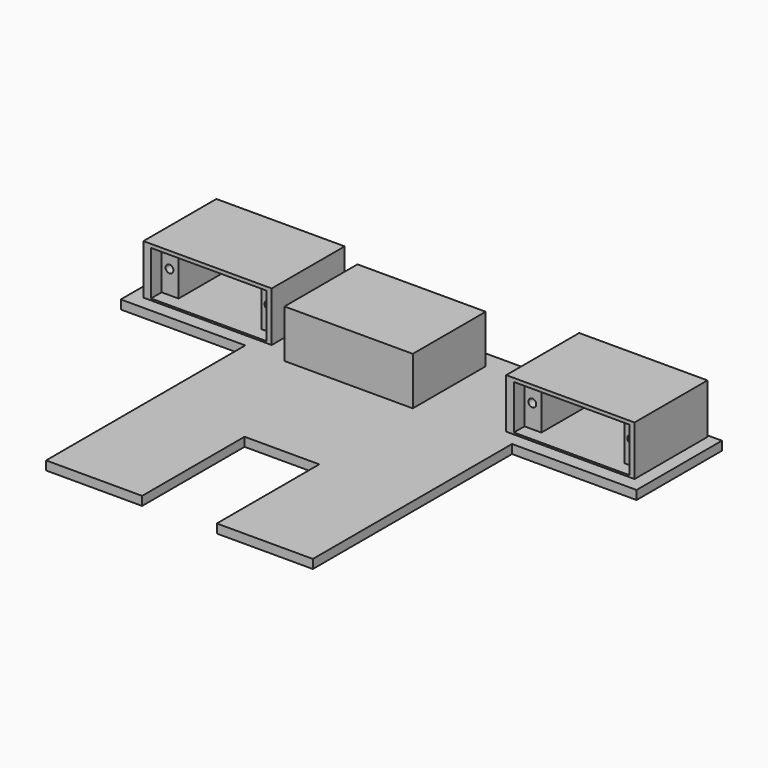
from build123d import *

# Parameters (mm, degrees)
BOX006_W               = 21
BOX006_H               = 36
BOX006_DEPTH           = 10
CYLINDER013_R          = 1.1
CYLINDER013_DEPTH      = 10
CYLINDER014_R          = 1.1
CYLINDER014_DEPTH      = 10
SKETCH019_W            = 23.3
SKETCH019_H            = 12.5
PAD019_DEPTH           = 19.5
SKETCH017_W            = 32.5
SKETCH017_H            = 12.5
PAD018_DEPTH           = 4.5
SKETCH018_W            = 36.061928
SKETCH018_H            = 25.639376
PAD017_DEPTH           = 14
CYLINDER015_R          = 1.1
CYLINDER015_DEPTH      = 10
CYLINDER016_R          = 1.1
CYLINDER016_DEPTH      = 10
SKETCH022_W            = 23.3
SKETCH022_H            = 12.5
PAD022_DEPTH           = 19.5
SKETCH020_W            = 32.5
SKETCH020_H            = 12.5
PAD021_DEPTH           = 4.5
SKETCH021_W            = 36.061928
SKETCH021_H            = 25.639376
PAD020_DEPTH           = 14
CUT019_PLACEMENT_ANGLE = 180
CYLINDER017_R          = 1.1
CYLINDER017_DEPTH      = 10
CYLINDER018_R          = 1.1
CYLINDER018_DEPTH      = 10
SKETCH025_W            = 23.3
SKETCH025_H            = 12.5
PAD025_DEPTH           = 19.5
SKETCH023_W            = 32.5
SKETCH023_H            = 12.5
PAD024_DEPTH           = 4.5
SKETCH024_W            = 36.061928
SKETCH024_H            = 25.639376
PAD023_DEPTH           = 14
CUT022_PLACEMENT_ANGLE = 180
PAD016_DEPTH           = 2.5


with BuildPart() as cube006:
    # Box006 → Box006 (new body)
    with BuildSketch(Plane(origin=(-10.5, -34, 0), x_dir=(1, 0, 0), z_dir=(0, 0, 1))):
        with Locations((10.5, 18)):
            Rectangle(BOX006_W, BOX006_H)
    extrude(amount=BOX006_DEPTH)


with BuildPart() as cylinder013:
    # Cylinder013 → Cylinder013 (new body)
    with BuildSketch(Plane(origin=(30, 22, 6), x_dir=(1, 0, 0), z_dir=(0, -1, 0))):
        Circle(CYLINDER013_R)
    extrude(amount=CYLINDER013_DEPTH)


with BuildPart() as obj1:
    # Cylinder014 → Cylinder014 (new body)
    with BuildSketch(Plane(origin=(2.2, 22, 6), x_dir=(1, 0, 0), z_dir=(0, -1, 0))):
        Circle(CYLINDER014_R)
    extrude(amount=CYLINDER014_DEPTH)

    # Fusion014: union Cylinder013
    add(cylinder013.part)


with BuildPart() as cortecuerpo002:
    # Sketch019 → Pad019 (new body)
    with BuildSketch(Plane.XZ):
        with Locations((16.4, 6.25)):
            Rectangle(SKETCH019_W, SKETCH019_H)
    extrude(amount=PAD019_DEPTH)


with BuildPart() as cortecuerpo002_1:
    # Body021 placement: moved
    add(cortecuerpo002.part.moved(Location((0, 19, 0))))


with BuildPart() as cortetornillos002:
    # Sketch017 → Pad018 (new body)
    with BuildSketch(Plane.XZ):
        with Locations((16.25, 6.25)):
            Rectangle(SKETCH017_W, SKETCH017_H)
    extrude(amount=PAD018_DEPTH)


with BuildPart() as cortetornillos002_1:
    # Body020 placement: moved
    add(cortetornillos002.part.moved(Location((0, 23, 0))))


with BuildPart() as obj2:
    # Sketch018 → Pad017 (new body)
    with BuildSketch(Plane.XY):
        with Locations((15.881367, 9.413649)):
            Rectangle(SKETCH018_W, SKETCH018_H)
    extrude(amount=PAD017_DEPTH)


with BuildPart() as obj2_1:
    # Body019 placement: moved
    add(obj2.part.moved(Location((0, 0, -1))))

    # Cut014: cut CorteTornillos002
    add(cortetornillos002_1.part, mode=Mode.SUBTRACT)

    # Cut015: cut CorteCuerpo002
    add(cortecuerpo002_1.part, mode=Mode.SUBTRACT)

    # Cut016: cut obj1
    add(obj1.part, mode=Mode.SUBTRACT)


with BuildPart() as obj2_2:
    # Cut016 placement: moved
    add(obj2_1.part.moved(Location((-24, 39, 4))))


with BuildPart() as cylinder015:
    # Cylinder015 → Cylinder015 (new body)
    with BuildSketch(Plane(origin=(30, 22, 6), x_dir=(1, 0, 0), z_dir=(0, -1, 0))):
        Circle(CYLINDER015_R)
    extrude(amount=CYLINDER015_DEPTH)


with BuildPart() as obj3:
    # Cylinder016 → Cylinder016 (new body)
    with BuildSketch(Plane(origin=(2.2, 22, 6), x_dir=(1, 0, 0), z_dir=(0, -1, 0))):
        Circle(CYLINDER016_R)
    extrude(amount=CYLINDER016_DEPTH)

    # Fusion015: union Cylinder015
    add(cylinder015.part)


with BuildPart() as cortecuerpo003:
    # Sketch022 → Pad022 (new body)
    with BuildSketch(Plane.XZ):
        with Locations((16.4, 6.25)):
            Rectangle(SKETCH022_W, SKETCH022_H)
    extrude(amount=PAD022_DEPTH)


with BuildPart() as cortecuerpo003_1:
    # Body024 placement: moved
    add(cortecuerpo003.part.moved(Location((0, 19, 0))))


with BuildPart() as cortetornillos003:
    # Sketch020 → Pad021 (new body)
    with BuildSketch(Plane.XZ):
        with Locations((16.25, 6.25)):
            Rectangle(SKETCH020_W, SKETCH020_H)
    extrude(amount=PAD021_DEPTH)


with BuildPart() as cortetornillos003_1:
    # Body023 placement: moved
    add(cortetornillos003.part.moved(Location((0, 23, 0))))


with BuildPart() as obj4:
    # Sketch021 → Pad020 (new body)
    with BuildSketch(Plane.XY):
        with Locations((15.881367, 9.413649)):
            Rectangle(SKETCH021_W, SKETCH021_H)
    extrude(amount=PAD020_DEPTH)


with BuildPart() as obj4_1:
    # Body022 placement: moved
    add(obj4.part.moved(Location((0, 0, -1))))

    # Cut017: cut CorteTornillos003
    add(cortetornillos003_1.part, mode=Mode.SUBTRACT)

    # Cut018: cut CorteCuerpo003
    add(cortecuerpo003_1.part, mode=Mode.SUBTRACT)

    # Cut019: cut obj3
    add(obj3.part, mode=Mode.SUBTRACT)


with BuildPart() as obj4_2:
    # Cut019 placement: moved
    add(obj4_1.part.moved(Location((-67, 62, 16.5))).rotate(Axis((-67, 62, 16.5), (1, 0, 0)), CUT019_PLACEMENT_ANGLE))


with BuildPart() as cylinder017:
    # Cylinder017 → Cylinder017 (new body)
    with BuildSketch(Plane(origin=(30, 22, 6), x_dir=(1, 0, 0), z_dir=(0, -1, 0))):
        Circle(CYLINDER017_R)
    extrude(amount=CYLINDER017_DEPTH)


with BuildPart() as obj5:
    # Cylinder018 → Cylinder018 (new body)
    with BuildSketch(Plane(origin=(2.2, 22, 6), x_dir=(1, 0, 0), z_dir=(0, -1, 0))):
        Circle(CYLINDER018_R)
    extrude(amount=CYLINDER018_DEPTH)

    # Fusion016: union Cylinder017
    add(cylinder017.part)


with BuildPart() as cortecuerpo004:
    # Sketch025 → Pad025 (new body)
    with BuildSketch(Plane.XZ):
        with Locations((16.4, 6.25)):
            Rectangle(SKETCH025_W, SKETCH025_H)
    extrude(amount=PAD025_DEPTH)


with BuildPart() as cortecuerpo004_1:
    # Body027 placement: moved
    add(cortecuerpo004.part.moved(Location((0, 19, 0))))


with BuildPart() as cortetornillos004:
    # Sketch023 → Pad024 (new body)
    with BuildSketch(Plane.XZ):
        with Locations((16.25, 6.25)):
            Rectangle(SKETCH023_W, SKETCH023_H)
    extrude(amount=PAD024_DEPTH)


with BuildPart() as cortetornillos004_1:
    # Body026 placement: moved
    add(cortetornillos004.part.moved(Location((0, 23, 0))))


with BuildPart() as obj6:
    # Sketch024 → Pad023 (new body)
    with BuildSketch(Plane.XY):
        with Locations((15.881367, 9.413649)):
            Rectangle(SKETCH024_W, SKETCH024_H)
    extrude(amount=PAD023_DEPTH)


with BuildPart() as obj6_1:
    # Body025 placement: moved
    add(obj6.part.moved(Location((0, 0, -1))))

    # Cut020: cut CorteTornillos004
    add(cortetornillos004_1.part, mode=Mode.SUBTRACT)

    # Cut021: cut CorteCuerpo004
    add(cortecuerpo004_1.part, mode=Mode.SUBTRACT)

    # Cut022: cut obj5
    add(obj5.part, mode=Mode.SUBTRACT)


with BuildPart() as obj6_2:
    # Cut022 placement: moved
    add(obj6_1.part.moved(Location((35, 62, 16.5))).rotate(Axis((35, 62, 16.5), (1, 0, 0)), CUT022_PLACEMENT_ANGLE))


with BuildPart() as cut031:
    # Sketch016 → Pad016 (new body)
    with BuildSketch(Plane.XY):
        Polygon((-72.5, 36), (-72.5, 66), (72.5, 66), (72.5, 36), (37.5, 36), (37.5, -34), (-37.5, -34), (-37.5, 36), align=None)
    extrude(amount=PAD016_DEPTH)


with BuildPart() as cut031_1:
    # Body018 placement: moved
    add(cut031.part.moved(Location((0, 0, 1))))

    # Fusion022: union obj2, obj4, obj6
    add(obj2_2.part)
    add(obj4_2.part)
    add(obj6_2.part)

    # Cut031: cut Cube006
    add(cube006.part, mode=Mode.SUBTRACT)


solid = cut031_1.part
